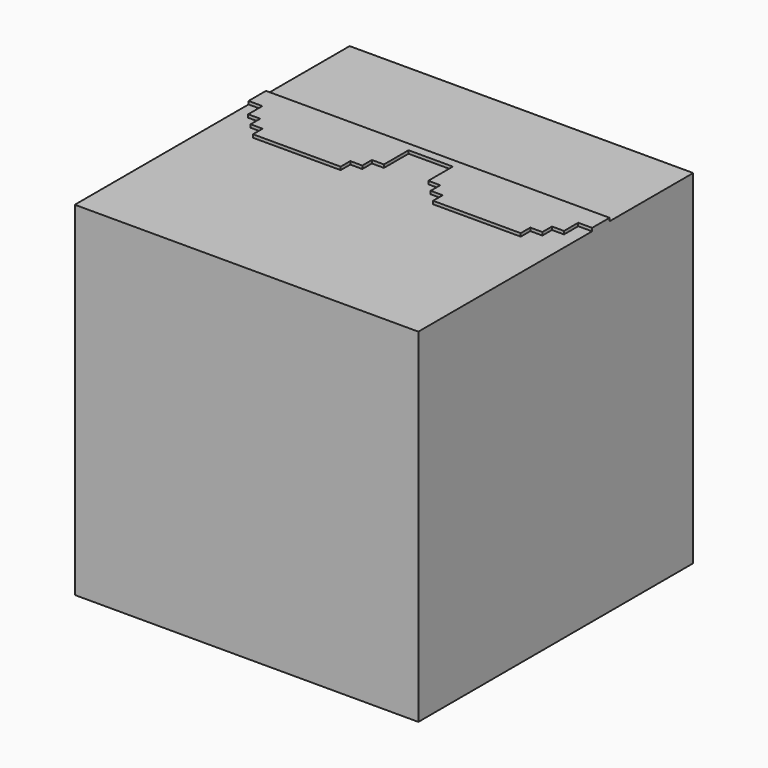
from build123d import *

# Parameters (mm, degrees)
F1_DEPTH = 25.4
F3_DEPTH = 0.2286


with BuildPart() as f1:
    # F0 (on Top) → F1 (new body)
    with BuildSketch(Plane.XY):
        Polygon((12.7, 0), (0, 0), (-12.7, 0), (-12.7, -8.613591), (-12.7, -11.652172), (-12.7, -25.4), (12.7, -25.4), (12.7, -11.652172), (12.7, -8.613591), align=None)
    extrude(amount=F1_DEPTH)

    # F2 (on face) → F3 (join)
    with BuildSketch(Plane.XY.offset(25.4)):
        Polygon((-9.396807, -7.732096), (-12.7, -7.732096), (-12.7, -9.343169), (-11.674104, -9.343169), (-11.674104, -10.657025), (-10.785104, -10.657025), (-10.785104, -10.954242), (-10.785104, -11.546025), (-9.896104, -11.546025), (-9.896104, -12.435025), (-3.415949, -12.435025), (-3.415949, -11.546025), (-2.526949, -11.546025), (-2.526949, -10.954242), (-2.526949, -10.657025), (-1.637949, -10.657025), (-1.637949, -8.385024), (1.637949, -8.385024), (1.637949, -10.657025), (2.526949, -10.657025), (2.526949, -10.954242), (2.526949, -11.546025), (3.415949, -11.546025), (3.415949, -12.435025), (9.896104, -12.435025), (9.896104, -11.546025), (10.785104, -11.546025), (10.785104, -10.954242), (10.785104, -10.657025), (11.674104, -10.657025), (11.674104, -9.343169), (12.7, -9.343169), (12.7, -7.732096), (2.526949, -7.732096), (-2.526949, -7.732096), (-6.235457, -7.732096), align=None)
    extrude(amount=F3_DEPTH)


solid = f1.part
